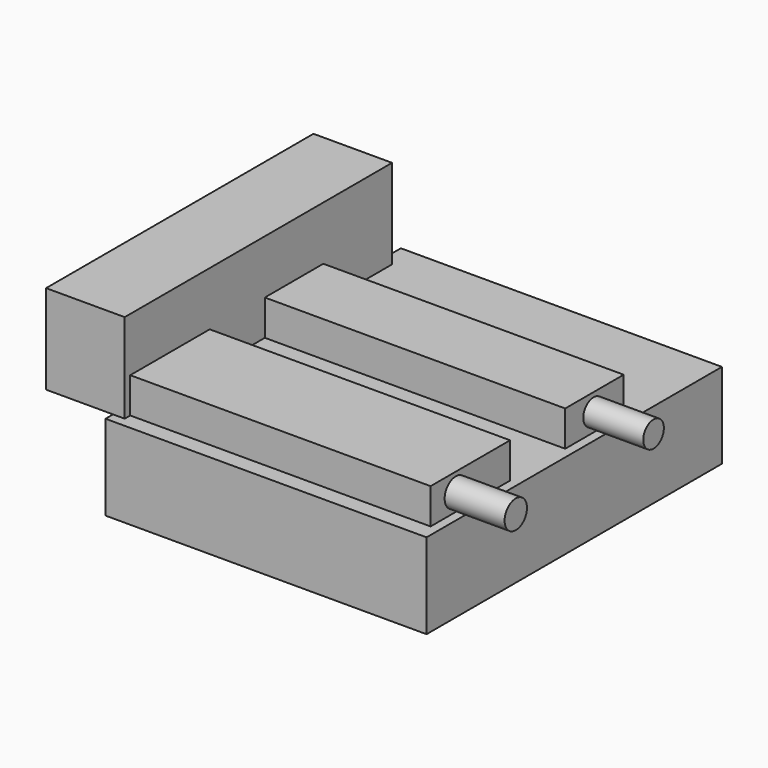
from build123d import *

# Parameters (mm, degrees)
F0_W     = 264.3314376473
F0_H     = 61.0694549978
F1_DEPTH = 229.87
F2_W     = 56.2751591206
F2_H     = 239.2987646163
F3_DEPTH = 64.008
F4_W     = 215.0589334778
F4_H     = 71.1349770427
F4_H_2   = 52.3396320641
F5_DEPTH = 25.4
F6_R     = 10.0158804511
F6_R_2   = 9.2218909308
F7_DEPTH = 42.926


with BuildPart() as f1:
    # F0 (on Right) → F1 (new body)
    with BuildSketch(Plane.YZ):
        with Locations((76.9639723003, -54.1143957525)):
            Rectangle(F0_W, F0_H)
    extrude(amount=-F1_DEPTH)

    # F2 (on face) → F3 (join)
    with BuildSketch(Plane.XY.offset(-23.5796682537)):
        with Locations((-249.6691197157, 71.1772423238)):
            Rectangle(F2_W, F2_H)
    extrude(amount=F3_DEPTH)

    # F4 (on face) → F5 (join)
    with BuildSketch(Plane.XY.offset(-23.5796682537)):
        with Locations((-114.0020734165, -7.937643677)):
            Rectangle(F4_W, F4_H)
        with Locations((-114.0020734165, 103.1337883323)):
            Rectangle(F4_W, F4_H_2)
    extrude(amount=F5_DEPTH)

    # F6 (on face) → F7 (join)
    with BuildSketch(Plane.YZ.offset(-6.4726066776)):
        with Locations((-20.9178049117, -11.1334202811)):
            Circle(F6_R)
        with Locations((102.3681536317, -10.6532974169)):
            Circle(F6_R_2)
    extrude(amount=F7_DEPTH)


solid = f1.part
